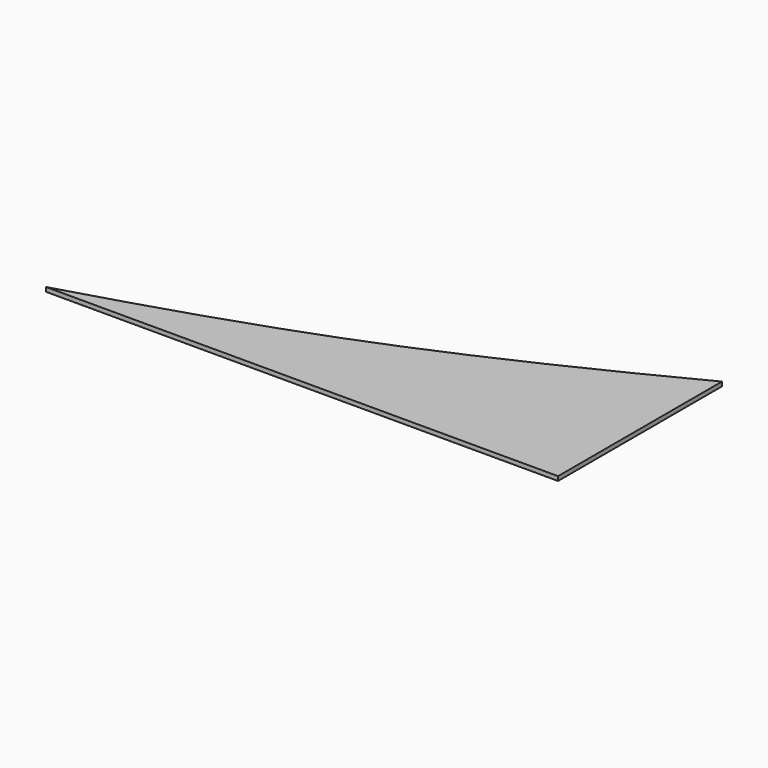
from build123d import *

# Parameters (mm, degrees)
F1_DEPTH = 12.7


with BuildPart() as f1:
    # F0 (on Top) → F1 (new body)
    with BuildSketch(Plane.XY):
        with BuildLine():
            Line((0, 0), (0, 609.6))
            add(Edge.make_bspline(
                [(-1524, 0), (-1263.9612112678, 75.4116010911), (-756.4918300615, 234.3024682982), (-247.7684285329, 481.2725243811), (0, 609.6)],
                knots=[0, 0, 0, 0, 0.4942710514, 1, 1, 1, 1], degree=3))
            Line((-1524, 0), (0, 0))
        make_face()
    extrude(amount=F1_DEPTH)


solid = f1.part
